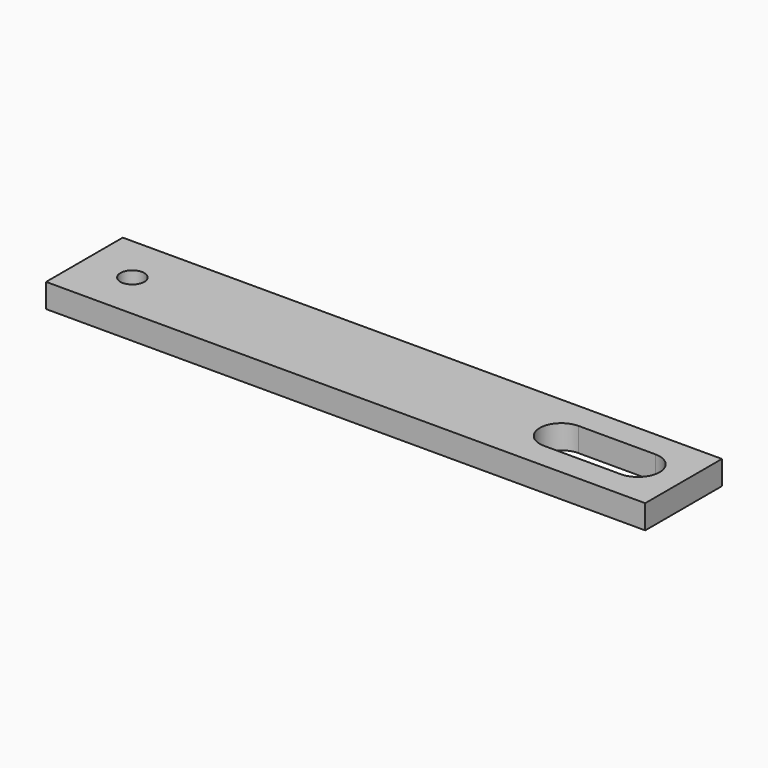
from build123d import *

# Parameters (mm, degrees)
F0_W     = 250
F0_H     = 40
F0_R     = 5
F1_DEPTH = 10
F3_DEPTH = 25


with BuildPart() as f1:
    # F0 (on Top) → F1 (new body)
    with BuildSketch(Plane.XY):
        Rectangle(F0_W, F0_H)
        with Locations((-105, 0)):
            Circle(F0_R, mode=Mode.SUBTRACT)
    extrude(amount=F1_DEPTH)

    # F2 (on face) → F3 (cut)
    with BuildSketch(Plane(origin=(0, 0, 0), x_dir=(1, 0, 0), z_dir=(0, 0, -1))):
        with BuildLine():
            Line((74, -9), (106, -9))
            ThreePointArc((106, -9), (115, 0), (106, 9))
            Line((106, 9), (74, 9))
            ThreePointArc((74, 9), (65, 0), (74, -9))
        make_face()
    extrude(amount=-F3_DEPTH, mode=Mode.SUBTRACT)


solid = f1.part
